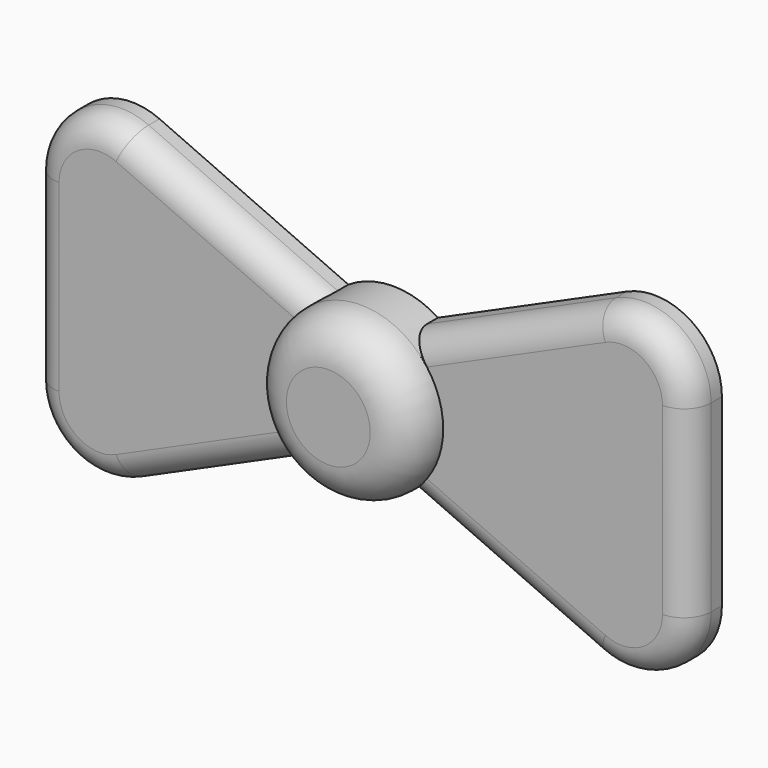
from build123d import *

# Parameters (mm, degrees)
F0_R     = 6.1031552094
F2_DEPTH = 6
F3_R     = 3
F4_DEPTH = 3
F5_R     = 5
F6_R     = 2


with BuildPart() as f2:
    # F0 (on Front) → F2 (new body)
    with BuildSketch(Plane.XZ):
        Circle(F0_R)
    extrude(amount=F2_DEPTH)

    # F3
    f3_edges = [f2.edges().sort_by_distance(p)[0] for p in [
        (-6.103155, -6, 0),
    ]]
    fillet(f3_edges, radius=F3_R)

    # F1 (on Front) → F4 (join)
    with BuildSketch(Plane.XZ):
        Polygon((-3.1815413386, -5.0610057078), (3.1815413386, -5.0610057078), (24.3407674134, -14.5224481821), (24.3407674134, 14.5224481821), (3.1815413386, 5.0610057078), (-3.1815413386, 5.0610057078), (-24.3407674134, 14.5224481821), (-24.3407674134, -14.5224481821), align=None)
    extrude(amount=F4_DEPTH)

    # F5
    f5_edges = [f2.edges().sort_by_distance(p)[0] for p in [
        (24.340767, -1.5, 14.522448),
        (24.340767, -1.5, -14.522448),
        (-24.340767, -1.5, -14.522448),
        (-24.340767, -1.5, 14.522448),
    ]]
    fillet(f5_edges, radius=F5_R)

    # F6
    f6_edges = [f2.edges().sort_by_distance(p)[0] for p in [
        (-22.060594, -3, -11.005109),
        (10.309065, -3, 8.24811),
    ]]
    fillet(f6_edges, radius=F6_R)


solid = f2.part
